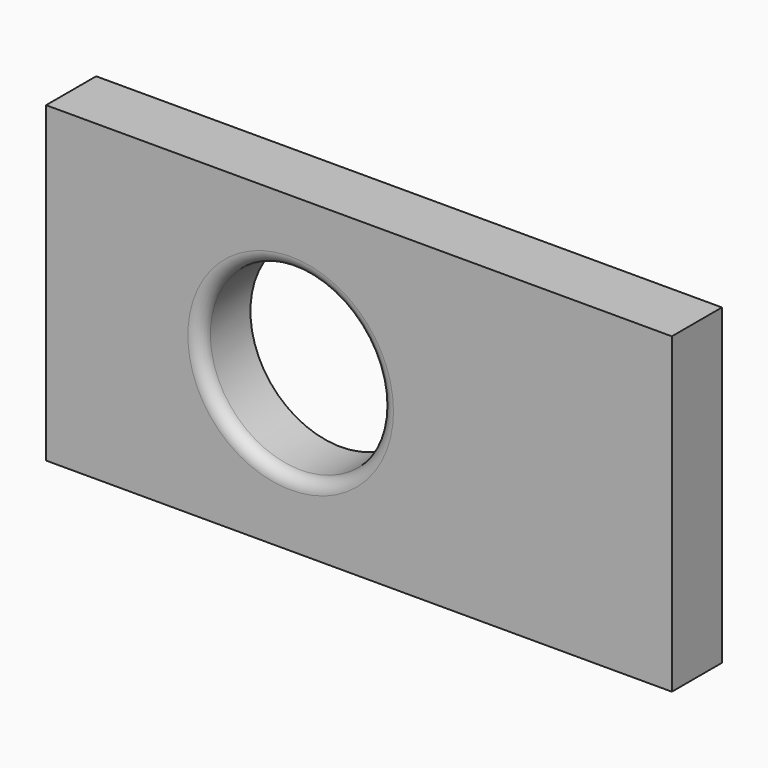
from build123d import *

# Parameters (mm, degrees)
F0_W     = 254
F0_H     = 127
F0_R     = 36.655344
F1_DEPTH = 25.4
F2_R     = 5.08


with BuildPart() as f1:
    # F0 (on Front) → F1 (new body)
    with BuildSketch(Plane.XZ):
        with Locations((-149.695554, 26.810327)):
            Rectangle(F0_W, F0_H)
        with Locations((-177.422449, 26.80031)):
            Circle(F0_R, mode=Mode.SUBTRACT)
    extrude(amount=-F1_DEPTH)

    # F2
    f2_edges = [f1.edges().sort_by_distance(p)[0] for p in [
        (-214.077793, 0, 26.80031),
    ]]
    fillet(f2_edges, radius=F2_R)


solid = f1.part
